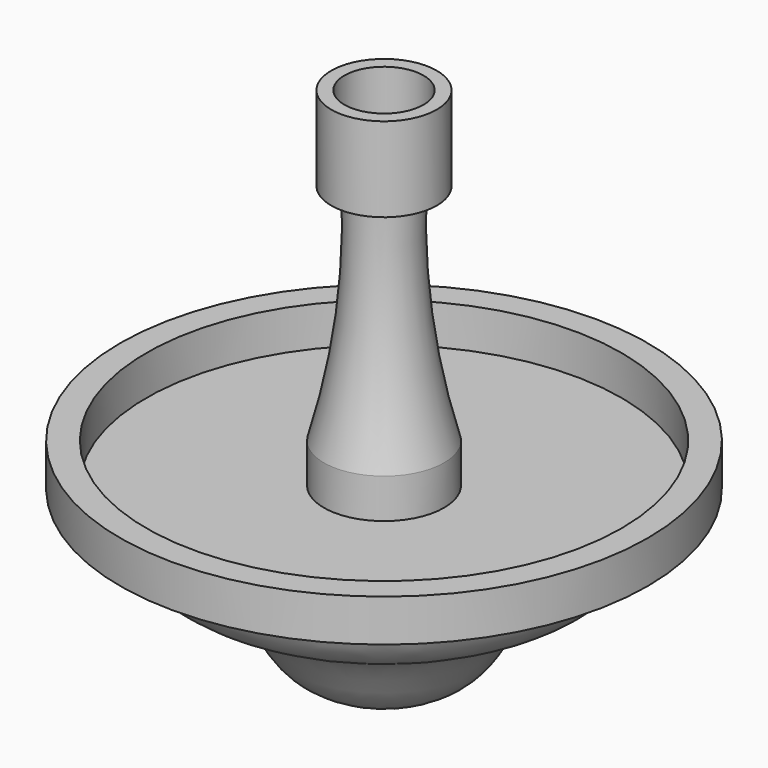
from build123d import *

# Parameters (mm, degrees)
F2_R     = 4.7625
F3_DEPTH = 9.525
F4_R     = 28.575
F4_R_2   = 7.2307717055
F5_DEPTH = 4.7625


with BuildPart() as f1:
    # F0 (on Front) → F1 (revolve)
    with BuildSketch(Plane.XZ):
        with BuildLine():
            Line((6.35, 30.6467008089), (0, 30.6467008089))
            Line((0, 30.6467008089), (0, -32.8532991911))
            add(Edge.make_bspline(
                [(26.6617717055, -11.54401084), (25.9701343115, -13.9314647613), (24.3508750064, -18.9183687036), (13.5457281466, -21.337726364), (11.0907767564, -30.071349519), (4.3230797164, -32.7566675842), (0, -32.8532991911)],
                knots=[0, 0, 0, 0, 0.2244751583, 0.4859098, 0.7233243068, 1, 1, 1, 1], degree=3))
            Line((26.6617717055, -11.54401084), (31.7417717055, -11.54401084))
            Line((31.7417717055, -11.54401084), (31.7417717055, -6.46401084))
            Line((31.7417717055, -6.46401084), (7.2307717055, -6.46401084))
            ThreePointArc((7.2307717055, -6.46401084), (4.5430528835, 6.8824310785), (4.018467851, 20.4867008089))
            Line((4.018467851, 20.4867008089), (6.35, 20.4867008089))
            Line((6.35, 20.4867008089), (6.35, 30.6467008089))
        make_face()
    revolve(axis=Axis((0, 0, -1.1032991911), (0, 0, -1)))

    # F2 (on face) → F3 (cut)
    with BuildSketch(Plane.XY.offset(30.6467008089)):
        Circle(F2_R)
    extrude(amount=-F3_DEPTH, mode=Mode.SUBTRACT)

    # F4 (on face) → F5 (cut)
    with BuildSketch(Plane.XY.offset(-6.46401084)):
        Circle(F4_R)
        Circle(F4_R_2, mode=Mode.SUBTRACT)
    extrude(amount=-F5_DEPTH, mode=Mode.SUBTRACT)


solid = f1.part
